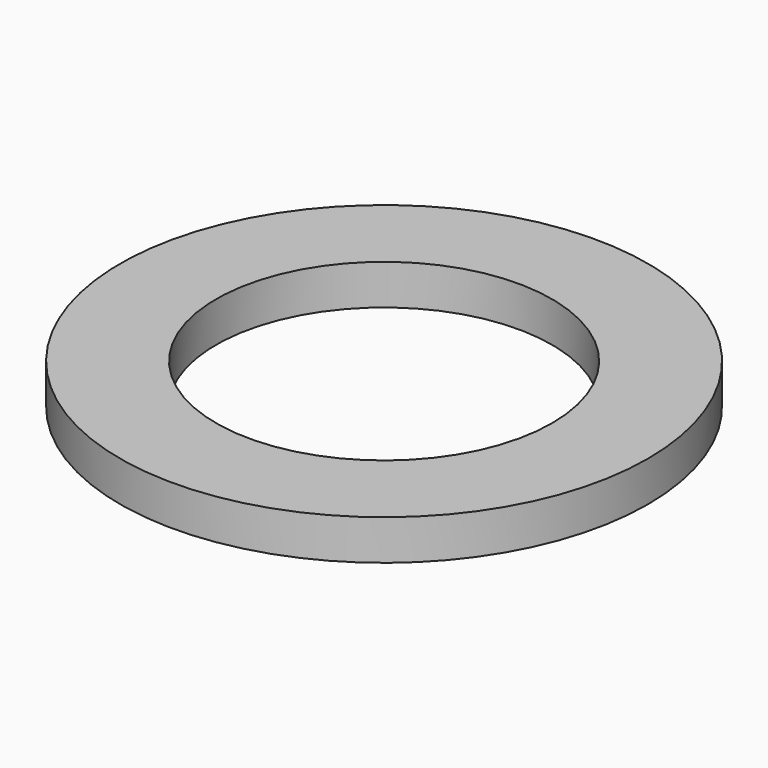
from build123d import *

# Parameters (mm, degrees)
SKETCH_R   = 22
SKETCH_R_2 = 14
PAD_DEPTH  = 3.35


with BuildPart() as part:
    # Sketch → Pad (new body)
    with BuildSketch(Plane.XY):
        Circle(SKETCH_R)
        Circle(SKETCH_R_2, mode=Mode.SUBTRACT)
    extrude(amount=PAD_DEPTH)


solid = part.part
